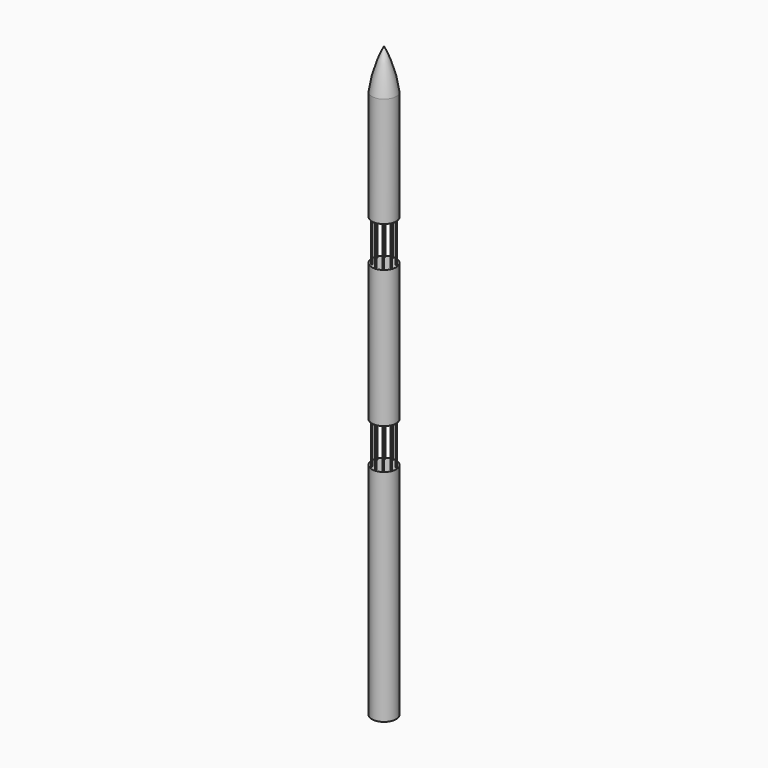
from build123d import *

# Parameters (mm, degrees)
SKETCH_R              = 150
PAD_DEPTH             = 2720
SKETCH001_R           = 7
PAD001_DEPTH          = 500
POLARPATTERN_COUNT    = 10
SKETCH002_R           = 150
PAD002_DEPTH          = 1700
SKETCH003_R           = 7
PAD003_DEPTH          = 500
POLARPATTERN001_COUNT = 10
SKETCH004_R           = 150
PAD004_DEPTH          = 1360


with BuildPart() as part:
    # Sketch → Pad (new body)
    with BuildSketch(Plane.XY):
        Circle(SKETCH_R)
    extrude(amount=PAD_DEPTH)

    # Sketch001 (on Face3 of Pad) → Pad001 (join)
    with BuildSketch(Plane.XY.offset(2720)):
        with Locations((0, 125)):
            Circle(SKETCH001_R)
    pad001 = extrude(amount=PAD001_DEPTH)

    # PolarPattern: Pad001 ×10 about axis
    polarpattern_axis = Axis((0, 0, 2720), (0, 0, 1))
    for i in range(1, POLARPATTERN_COUNT):
        add(pad001.rotate(polarpattern_axis, i * 360 / POLARPATTERN_COUNT))

    # Sketch002 (on DatumPlane) → Pad002 (join)
    with BuildSketch(Plane.XY.offset(3220)):
        Circle(SKETCH002_R)
    extrude(amount=PAD002_DEPTH)

    # Sketch003 (on Face3 of Pad002) → Pad003 (join)
    with BuildSketch(Plane.XY.offset(4920)):
        with Locations((0, 125)):
            Circle(SKETCH003_R)
    pad003 = extrude(amount=PAD003_DEPTH)

    # PolarPattern001: Pad003 ×10 about axis
    polarpattern001_axis = Axis((0, 0, 4920), (0, 0, 1))
    for i in range(1, POLARPATTERN001_COUNT):
        add(pad003.rotate(polarpattern001_axis, i * 360 / POLARPATTERN001_COUNT))

    # Sketch004 (on DatumPlane) → Pad004 (join)
    with BuildSketch(Plane.XY.offset(5420)):
        Circle(SKETCH004_R)
    extrude(amount=PAD004_DEPTH)

    # Sketch006 → Revolution (revolve)
    with BuildSketch(Plane.YZ):
        with BuildLine():
            ThreePointArc((150, 6780), (96.917819, 7036.575346), (0, 7280))
            Line((0, 7280), (0, 6780))
            Line((0, 6780), (150, 6780))
        make_face()
    revolve(axis=Axis((0, 0, 0), (0, 0, 1)))


solid = part.part
